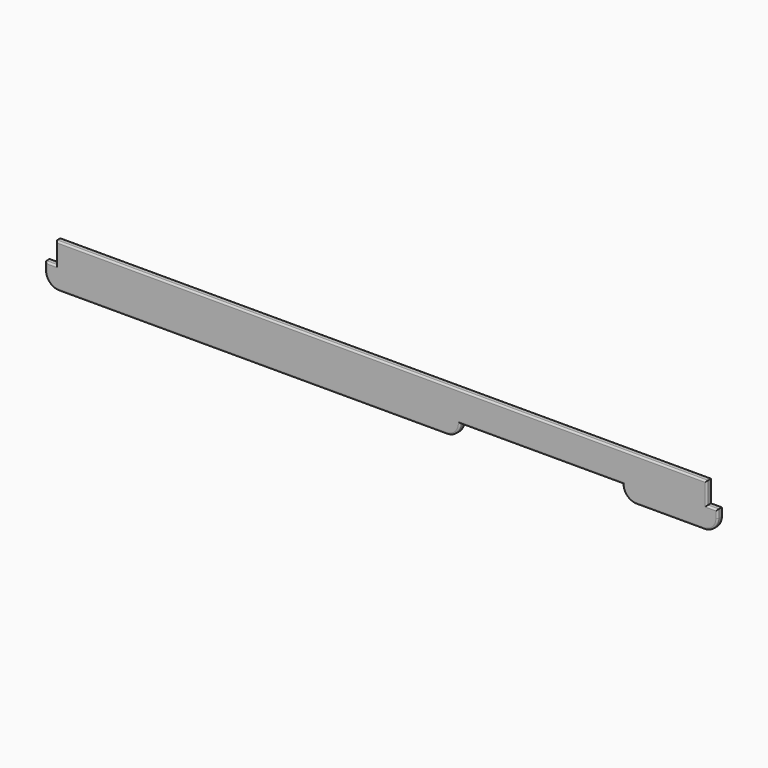
from build123d import *

# Parameters (mm, degrees)
F1_DEPTH = 12
F3_R     = 3


with BuildPart() as f1:
    # F0 (on Front) → F1 (new body)
    with BuildSketch(Plane.XZ):
        with BuildLine():
            Line((813.389391, 66.97586), (-386.610609, 66.97586))
            Line((-386.610609, 66.97586), (-386.610609, 26.97586))
            Line((-386.610609, 26.97586), (-406.610609, 26.97586))
            Line((-406.610609, 26.97586), (-406.610609, 11.97586))
            ThreePointArc((-406.610609, 11.97586), (-399.288279, -5.70181), (-381.610609, -13.02414))
            Line((-381.610609, -13.02414), (333.389391, -13.02414))
            ThreePointArc((333.389391, -13.02414), (351.06706, -5.70181), (358.389391, 11.97586))
            Line((358.389391, 11.97586), (658.389391, 11.97586))
            ThreePointArc((658.389391, 11.97586), (665.711721, -5.70181), (683.389391, -13.02414))
            Line((683.389391, -13.02414), (808.389391, -13.02414))
            ThreePointArc((808.389391, -13.02414), (826.06706, -5.70181), (833.389391, 11.97586))
            Line((833.389391, 11.97586), (833.389391, 26.97586))
            Line((833.389391, 26.97586), (813.389391, 26.97586))
            Line((813.389391, 26.97586), (813.389391, 66.97586))
        make_face()
    extrude(amount=F1_DEPTH)

    # F3
    f3_edges = [f1.edges().sort_by_distance(p)[0] for p in [
        (213.389391, -12, 66.97586),
        (-386.610609, -12, 46.97586),
        (-396.610609, -12, 26.97586),
        (-406.610609, -12, 19.47586),
        (-399.288279, -12, -5.70181),
        (-24.110609, -12, -13.02414),
        (351.06706, -12, -5.70181),
        (508.389391, -12, 11.97586),
        (665.711721, -12, -5.70181),
        (745.889391, -12, -13.02414),
        (826.06706, -12, -5.70181),
        (833.389391, -12, 19.47586),
        (823.389391, -12, 26.97586),
        (813.389391, -12, 46.97586),
        (213.389391, 0, 66.97586),
        (-386.610609, 0, 46.97586),
        (-396.610609, 0, 26.97586),
        (-406.610609, 0, 19.47586),
        (-399.288279, 0, -5.70181),
        (-24.110609, 0, -13.02414),
        (351.06706, 0, -5.70181),
        (508.389391, 0, 11.97586),
        (665.711721, 0, -5.70181),
        (745.889391, 0, -13.02414),
        (826.06706, 0, -5.70181),
        (833.389391, 0, 19.47586),
        (823.389391, 0, 26.97586),
        (813.389391, 0, 46.97586),
    ]]
    fillet(f3_edges, radius=F3_R)


solid = f1.part
